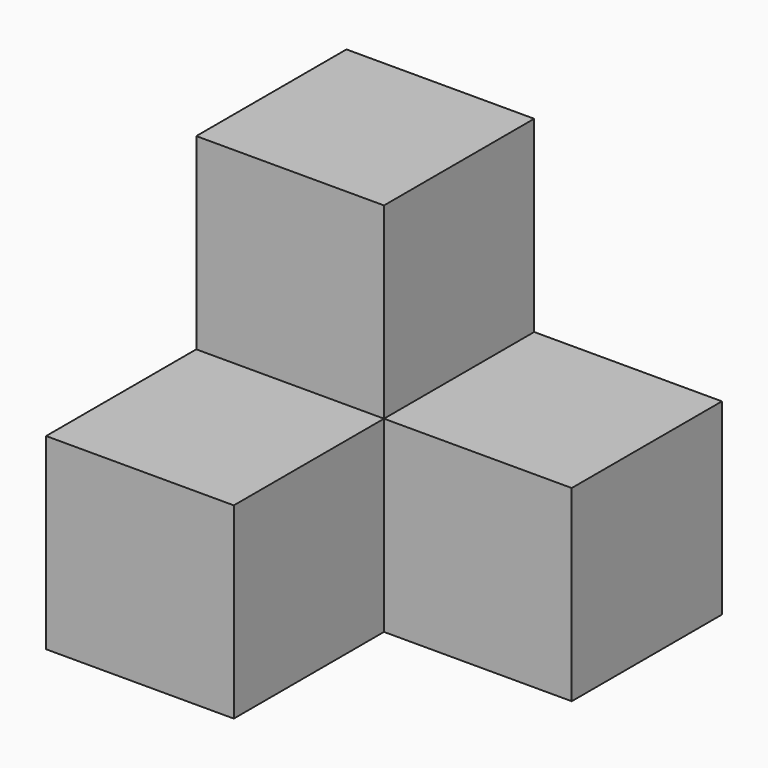
from build123d import *

# Parameters (mm, degrees)
BOX001_W     = 10
BOX001_H     = 10
BOX001_DEPTH = 10
BOX002_W     = 10
BOX002_H     = 10
BOX002_DEPTH = 10
BOX_W        = 10
BOX_H        = 10
BOX_DEPTH    = 20


with BuildPart() as cubo2:
    # Box001 → Box001 (new body)
    with BuildSketch(Plane(origin=(10, 0, 0), x_dir=(1, 0, 0), z_dir=(0, 0, 1))):
        with Locations((5, 5)):
            Rectangle(BOX001_W, BOX001_H)
    extrude(amount=BOX001_DEPTH)


with BuildPart() as cubo3:
    # Box002 → Box002 (new body)
    with BuildSketch(Plane(origin=(0, -10, 0), x_dir=(1, 0, 0), z_dir=(0, 0, 1))):
        with Locations((5, 5)):
            Rectangle(BOX002_W, BOX002_H)
    extrude(amount=BOX002_DEPTH)


with BuildPart() as fusion:
    # Box → Box (new body)
    with BuildSketch(Plane.XY):
        with Locations((5, 5)):
            Rectangle(BOX_W, BOX_H)
    extrude(amount=BOX_DEPTH)

    # Fusion: union cubo2, cubo3
    add(cubo2.part)
    add(cubo3.part)


solid = fusion.part
